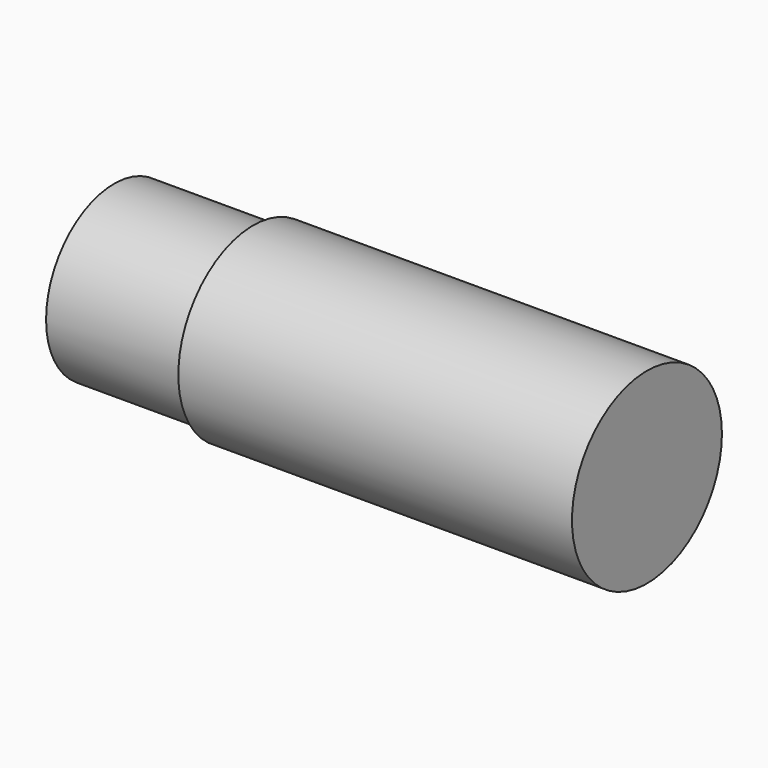
from build123d import *

# Parameters (mm, degrees)
F0_R     = 17.1069
F1_DEPTH = 97.282
F2_R     = 17.1069
F2_R_2   = 15.536557
F3_DEPTH = 25.4


with BuildPart() as f1:
    # F0 (on Right) → F1 (new body)
    with BuildSketch(Plane.YZ):
        Circle(F0_R)
    extrude(amount=F1_DEPTH)

    # F2 (on face) → F3 (cut)
    with BuildSketch(Plane(origin=(0, 0, 0), x_dir=(0, -1, 0), z_dir=(-1, 0, 0))):
        Circle(F2_R)
        Circle(F2_R_2, mode=Mode.SUBTRACT)
    extrude(amount=-F3_DEPTH, mode=Mode.SUBTRACT)


solid = f1.part
